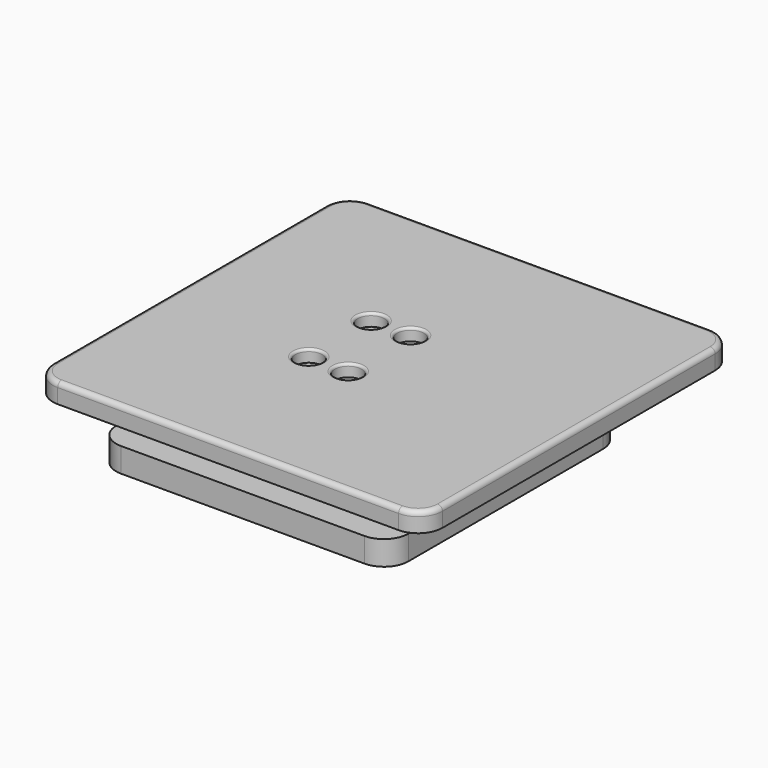
from build123d import *

# Parameters (mm, degrees)
PAD001_DEPTH            = 4
SKETCH003_R             = 2.75
POCKET_DEPTH            = 2.5
FILLET_R                = 1
FILLET001_R             = 0.5
SKETCH005_R             = 1.6
PAD002_DEPTH            = 5
SKETCH006_R             = 3.25
POCKET001_DEPTH         = 3.5
BODY001_PLACEMENT_ANGLE = 180


with BuildPart() as plate:
    # Sketch002 → Pad001 (new body)
    with BuildSketch(Plane.XY):
        with BuildLine():
            Line((-30, -40), (40, -40))
            ThreePointArc((40, -40), (43.535534, -38.535534), (45, -35))
            Line((45, -35), (45, 35))
            ThreePointArc((45, 35), (43.535534, 38.535534), (40, 40))
            Line((40, 40), (-30, 40))
            ThreePointArc((-30, 40), (-33.535534, 38.535534), (-35, 35))
            Line((-35, 35), (-35, -35))
            ThreePointArc((-35, -35), (-33.535534, -38.535534), (-30, -40))
        make_face()
    extrude(amount=PAD001_DEPTH)

    # Sketch003 (on Face10 of Pad001) → Pocket (cut)
    with BuildSketch(Plane.XY.offset(4)):
        with Locations((-4.05, 8)):
            Circle(SKETCH003_R)
        with Locations((4.05, 8)):
            Circle(SKETCH003_R)
        with Locations((-4.05, -8)):
            Circle(SKETCH003_R)
        with Locations((4.05, -8)):
            Circle(SKETCH003_R)
    extrude(amount=-POCKET_DEPTH, mode=Mode.SUBTRACT)

    # Fillet
    fillet_edges = [plate.edges().sort_by_distance(p)[0] for p in [
        (45, 0, 4),
        (43.535534, 38.535534, 4),
        (5, 40, 4),
        (-33.535534, 38.535534, 4),
        (-35, 0, 4),
        (-33.535534, -38.535534, 4),
        (5, -40, 4),
        (43.535534, -38.535534, 4),
    ]]
    fillet(fillet_edges, radius=FILLET_R)

    # Fillet001
    fillet001_edges = [plate.edges().sort_by_distance(p)[0] for p in [
        (-6.8, -8, 4),
        (-6.8, 8, 4),
        (1.3, 8, 4),
        (1.3, -8, 4),
    ]]
    fillet(fillet001_edges, radius=FILLET001_R)


with BuildPart() as base:
    # Sketch005 → Pad002 (new body)
    with BuildSketch(Plane(origin=(0, 0, 0), x_dir=(1, 0, 0), z_dir=(0, 0, -1))):
        with BuildLine():
            Line((-25, -30), (25, -30))
            ThreePointArc((25, -30), (28.535534, -28.535534), (30, -25))
            Line((30, -25), (30, 25))
            ThreePointArc((30, 25), (28.535534, 28.535534), (25, 30))
            Line((25, 30), (-25, 30))
            ThreePointArc((-25, 30), (-28.535534, 28.535534), (-30, 25))
            Line((-30, 25), (-30, -25))
            ThreePointArc((-30, -25), (-28.535534, -28.535534), (-25, -30))
        make_face()
        with Locations((-16, 8)):
            Circle(SKETCH005_R, mode=Mode.SUBTRACT)
        with Locations((16, 8)):
            Circle(SKETCH005_R, mode=Mode.SUBTRACT)
        with Locations((16, -8)):
            Circle(SKETCH005_R, mode=Mode.SUBTRACT)
        with Locations((-16, -8)):
            Circle(SKETCH005_R, mode=Mode.SUBTRACT)
    extrude(amount=PAD002_DEPTH)

    # Sketch006 (on Face14 of Pad002) → Pocket001 (cut)
    with BuildSketch(Plane(origin=(0, 0, -5), x_dir=(1, 0, 0), z_dir=(0, 0, -1))):
        with Locations((-16, 8)):
            Circle(SKETCH006_R)
        with Locations((-16, -8)):
            Circle(SKETCH006_R)
        with Locations((16, -8)):
            Circle(SKETCH006_R)
        with Locations((16, 8)):
            Circle(SKETCH006_R)
    extrude(amount=-POCKET001_DEPTH, mode=Mode.SUBTRACT)


with BuildPart() as base_1:
    # Body001 placement: moved
    add(base.part.moved(Location((0, 0, -10))).rotate(Axis((0, 0, -10), (0, 0, 1)), BODY001_PLACEMENT_ANGLE))


solid = Compound([plate.part, base_1.part])
